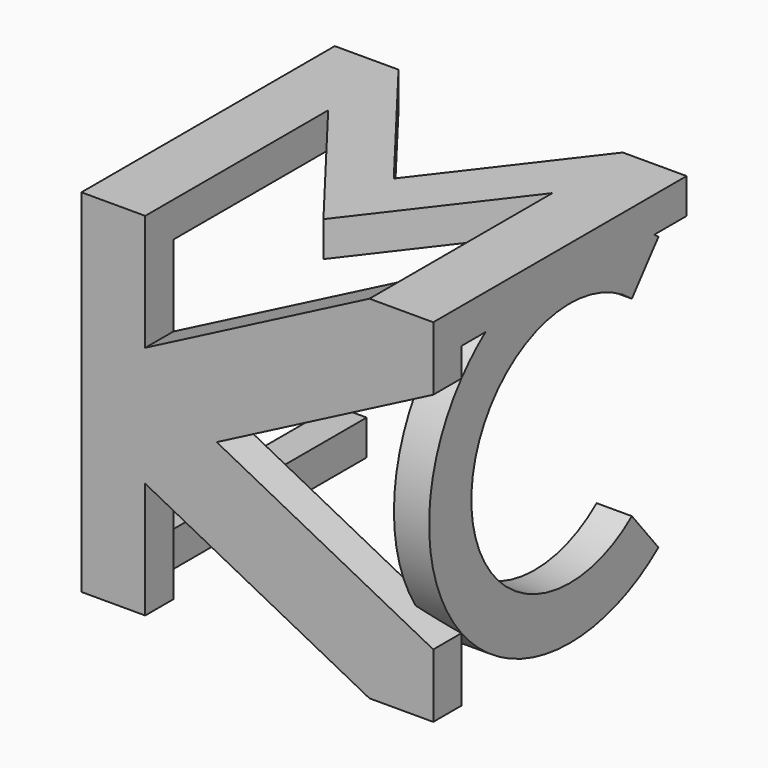
from build123d import *

# Parameters (mm, degrees)
F1_DEPTH = 10
F3_DEPTH = 10
F5_DEPTH = 10
F6_W     = 9.066966
F6_H     = 10
F7_DEPTH = 80


with BuildPart() as f1:
    # F0 (on Front) → F1 (new body)
    with BuildSketch(Plane.XZ):
        Polygon((0, 100), (0, 0), (18.133933, 0), (18.133933, 33.002501), (81.866067, 0), (100, 0), (100, 18.133933), (38.462467, 50), (100, 81.866067), (100, 100), (81.866067, 100), (18.133933, 66.997499), (18.133933, 100), align=None)
    extrude(amount=F1_DEPTH)

    # F2 (on face) → F3 (join)
    with BuildSketch(Plane.YZ.offset(100)):
        with BuildLine():
            Line((60.558972, 77.197799), (70, 88.853999))
            ThreePointArc((70, 88.853999), (55.222721, 97.1312), (38.529907, 100))
            ThreePointArc((38.529907, 100), (-11.470093, 50), (38.529907, 0))
            ThreePointArc((38.529907, 0), (55.222721, 2.8688), (70, 11.146001))
            Line((70, 11.146001), (60.558972, 22.802201))
            ThreePointArc((60.558972, 22.802201), (3.529907, 50), (60.558972, 77.197799))
        make_face()
    extrude(amount=-F3_DEPTH)

    # F4 (on face) → F5 (join)
    with BuildSketch(Plane.XY.offset(100)):
        Polygon((0, -10), (18.133933, -10), (18.133933, 55), (50, 13.471332), (81.866067, 55), (81.866067, -10), (100, -10), (100, 80), (81.866067, 80), (50, 38.471332), (18.133933, 80), (0, 80), align=None)
    extrude(amount=-F5_DEPTH)

    # F6 (on face) → F7 (join)
    with BuildSketch(Plane(origin=(0, 0, 0), x_dir=(-1, 0, 0), z_dir=(0, 1, 0))):
        with Locations((-4.533483, 5)):
            Rectangle(F6_W, F6_H)
    extrude(amount=F7_DEPTH)


solid = f1.part
